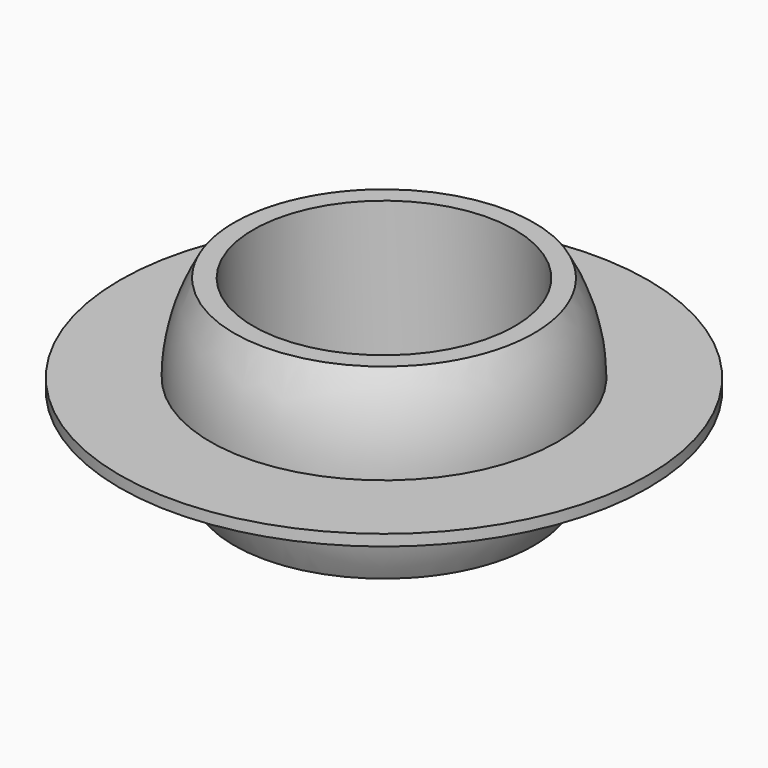
from build123d import *

# Parameters (mm, degrees)
F2_ANGLE       = 180
F1_R           = 70.7106781187
F3_DEPTH       = 3
F5_ANGLE       = 180
F8_W           = 100
F8_H           = 100
F9_DEPTH       = 25
F11_W          = 100
F11_H          = 100
F12_DEPTH      = 25
F13_R          = 35
F14_DEPTH      = 26.501
F14_DEPTH_BACK = 23.501


with BuildPart() as f2:
    # F1 (on Top) → F2 (revolve)
    with BuildSketch(Plane.XY):
        with BuildLine():
            ThreePointArc((-46.5, 0), (0, -46.5), (46.5, 0))
            Line((46.5, 0), (-46.5, 0))
        make_face()
    revolve(axis=Axis((0, 0, 0), (1, 0, 0)), revolution_arc=F2_ANGLE)

    # F1 (on Top) → F3 (join)
    with BuildSketch(Plane.XY):
        Circle(F1_R)
        with BuildLine():
            ThreePointArc((-46.5, 0), (0, 46.5), (46.5, 0))
            ThreePointArc((46.5, 0), (0, -46.5), (-46.5, 0))
        make_face(mode=Mode.SUBTRACT)
        with BuildLine():
            Line((-46.5, 0), (46.5, 0))
            ThreePointArc((46.5, 0), (0, 46.5), (-46.5, 0))
        make_face()
        with BuildLine():
            ThreePointArc((-46.5, 0), (0, -46.5), (46.5, 0))
            Line((46.5, 0), (-46.5, 0))
        make_face()
    extrude(amount=F3_DEPTH)

    # F4 (on face) → F5 (revolve)
    with BuildSketch(Plane.XY.offset(3)):
        with BuildLine():
            Line((46.5, 0), (-46.5, 0))
            ThreePointArc((-46.5, 0), (0, -46.5), (46.5, 0))
        make_face()
    revolve(axis=Axis((0, 0, 3), (-1, 0, 0)), revolution_arc=F5_ANGLE)

    # F8 (on plane+point) → F9 (cut)
    with BuildSketch(Plane.XY.offset(26.5)):
        Rectangle(F8_W, F8_H)
    extrude(amount=F9_DEPTH, mode=Mode.SUBTRACT)

    # F11 (on plane+point) → F12 (cut)
    with BuildSketch(Plane.XY.offset(-23.5)):
        Rectangle(F11_W, F11_H)
    extrude(amount=-F12_DEPTH, mode=Mode.SUBTRACT)

    # F13 (on Top) → F14 (cut, two sides)
    with BuildSketch(Plane.XY) as f14_sk:
        Circle(F13_R)
    extrude(amount=F14_DEPTH, mode=Mode.SUBTRACT)
    extrude(f14_sk.sketch, amount=-F14_DEPTH_BACK, mode=Mode.SUBTRACT)


solid = f2.part
